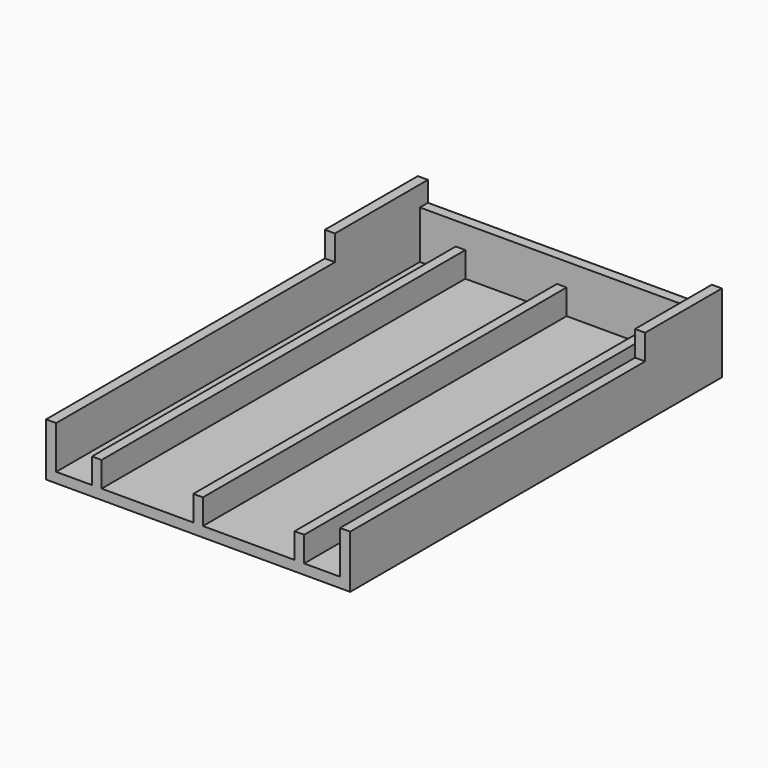
from build123d import *

# Parameters (mm, degrees)
SKETCH_W      = 1.9
SKETCH_H      = 5
PAD_DEPTH     = 90
SKETCH001_W   = 2
SKETCH001_H   = 69
SKETCH001_H_2 = 73
POCKET_DEPTH  = 5
SKETCH002_W   = 60.2
SKETCH002_H   = 11.5
PAD001_DEPTH  = 2
SKETCH004_W   = 2
SKETCH004_H   = 2
PAD002_DEPTH  = 4


with BuildPart() as part:
    # Sketch → Pad (new body)
    with BuildSketch(Plane.XZ):
        Polygon((-30.1, 0), (30.1, 0), (30.1, 15.5), (28.1, 15.5), (28.1, 2), (-28.1, 2), (-28.1, 15.5), (-30.1, 15.5), align=None)
        with Locations((0, 4.5)):
            Rectangle(SKETCH_W, SKETCH_H)
        with Locations((-20.05, 4.5)):
            Rectangle(SKETCH_W, SKETCH_H)
        with Locations((20.05, 4.5)):
            Rectangle(SKETCH_W, SKETCH_H)
    extrude(amount=PAD_DEPTH)

    # Sketch001 (on Face3 of Pad) → Pocket (cut)
    with BuildSketch(Plane(origin=(0, 0, 15.5), x_dir=(-1, 0, 0), z_dir=(0, 0, 1))):
        with Locations((29.1, 55.5)):
            Rectangle(SKETCH001_W, SKETCH001_H)
        with Locations((-29.1, 53.5)):
            Rectangle(SKETCH001_W, SKETCH001_H_2)
    extrude(amount=-POCKET_DEPTH, mode=Mode.SUBTRACT)

    # Sketch002 (on Face2 of Pocket) → Pad001 (join)
    with BuildSketch(Plane(origin=(0, 0, 0), x_dir=(1, 0, 0), z_dir=(0, 1, 0))):
        with Locations((0, -5.75)):
            Rectangle(SKETCH002_W, SKETCH002_H)
    extrude(amount=PAD001_DEPTH)

    # Sketch004 → Pad002 (join)
    with BuildSketch(Plane(origin=(0, 0, 11.5), x_dir=(-1, 0, 0), z_dir=(0, 0, 1))):
        with Locations((-29.1, -1)):
            Rectangle(SKETCH004_W, SKETCH004_H)
        with Locations((29.1, -1)):
            Rectangle(SKETCH004_W, SKETCH004_H)
    extrude(amount=PAD002_DEPTH)


solid = part.part
